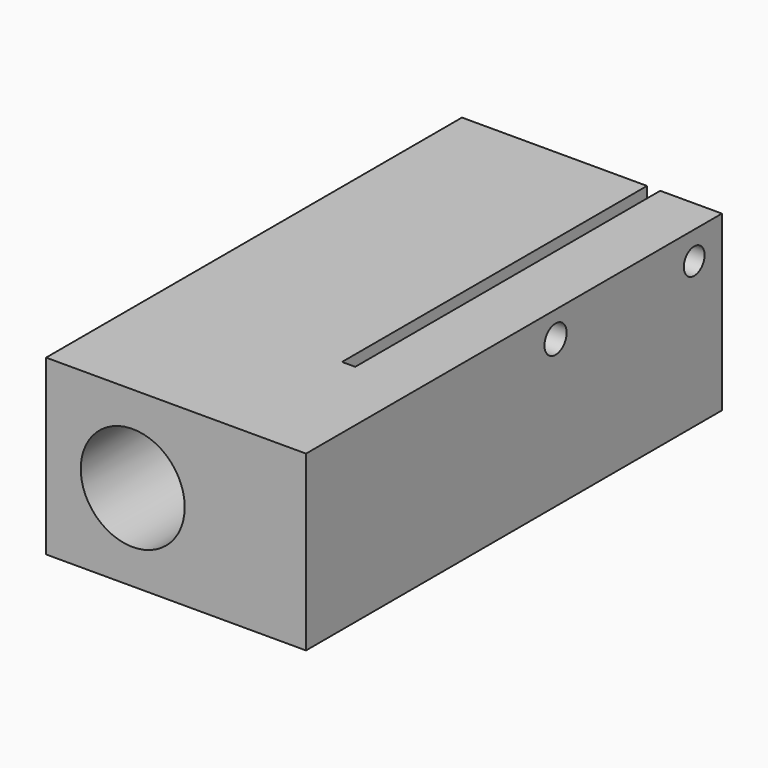
from build123d import *

# Parameters (mm, degrees)
F0_W     = 15
F0_H     = 30
F1_DEPTH = 10
F3_DEPTH = 22
F4_R     = 0.75
F4_R_2   = 0.8
F5_DEPTH = 7
F6_R     = 3
F7_DEPTH = 8
F8_R     = 0.95
F9_DEPTH = 25.4
F10_SIZE = 0.6


with BuildPart() as f1:
    # F0 (on Top) → F1 (new body)
    with BuildSketch(Plane.XY):
        Rectangle(F0_W, F0_H)
    extrude(amount=F1_DEPTH)

    # F2 (on face) → F3 (cut)
    with BuildSketch(Plane(origin=(0, 15, 0), x_dir=(-1, 0, 0), z_dir=(0, 1, 0))):
        with BuildLine():
            ThreePointArc((-3.940234, 7.403292), (-5.06429, 3.123137), (-1.05672, 5))
            ThreePointArc((-1.05672, 5), (-1.662096, 6.609884), (-3.178234, 7.422))
            ThreePointArc((-3.178234, 7.422), (-3.559968, 7.442544), (-3.940234, 7.403292))
        make_face()
        with BuildLine():
            ThreePointArc((-3.940234, 7.403292), (-3.559968, 7.442544), (-3.178234, 7.422))
            Line((-3.178234, 7.422), (-3.178234, 10))
            Line((-3.178234, 10), (-3.940234, 10))
            Line((-3.940234, 10), (-3.940234, 7.403292))
        make_face()
    extrude(amount=-F3_DEPTH, mode=Mode.SUBTRACT)

    # F4 (on face) → F5 (cut)
    with BuildSketch(Plane.YZ.offset(7.5)):
        with Locations((13, 8.4)):
            Circle(F4_R)
        with Locations((3, 8.5)):
            Circle(F4_R_2)
    extrude(amount=-F5_DEPTH, mode=Mode.SUBTRACT)

    # F6 (on face) → F7 (cut)
    with BuildSketch(Plane.XZ.offset(15)):
        with Locations((-2.5, 5)):
            Circle(F6_R)
    extrude(amount=-F7_DEPTH, mode=Mode.SUBTRACT)

    # F8 (on face) → F9 (cut)
    with BuildSketch(Plane.XZ.offset(7)):
        with Locations((-2.5, 5)):
            Circle(F8_R)
    extrude(amount=-F9_DEPTH, mode=Mode.SUBTRACT)

    # F10
    f10_edges = [f1.edges().sort_by_distance(p)[0] for p in [
        (-3.45, 15, 5),
    ]]
    chamfer(f10_edges, length=F10_SIZE)


solid = f1.part
